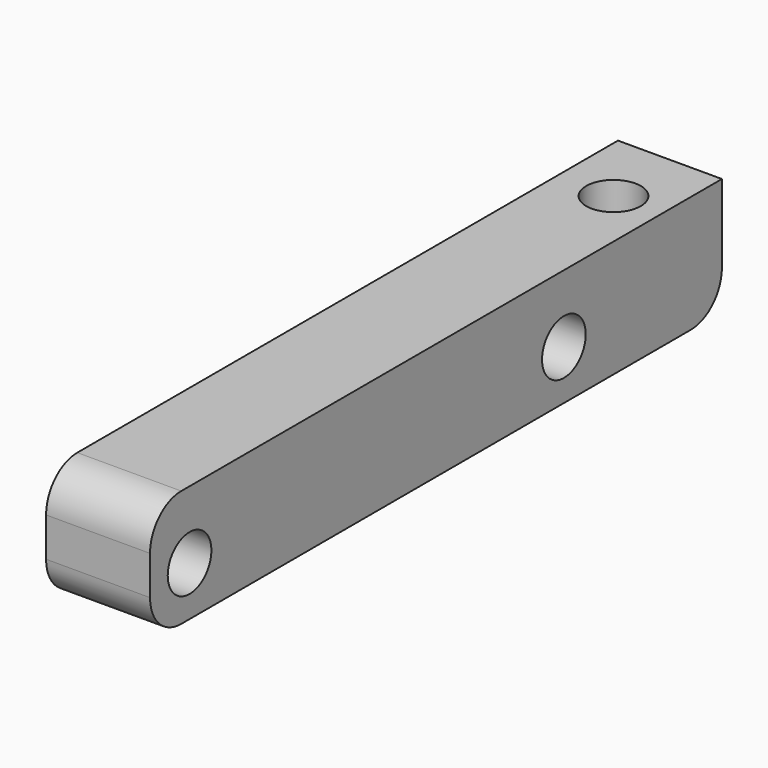
from build123d import *

# Parameters (mm, degrees)
CYLINDER006_R     = 2.1
CYLINDER006_DEPTH = 20
SKETCH005_R       = 2.1
EXTRUDE004_DEPTH  = 10
BOX003_W          = 8
BOX003_H          = 55
BOX003_DEPTH      = 9
FILLET001_R       = 3


with BuildPart() as obj1:
    # Cylinder006 → Cylinder006 (new body)
    with BuildSketch(Plane(origin=(14.5, 23.2, -10), x_dir=(1, 0, 0), z_dir=(0, 0, 1))):
        Circle(CYLINDER006_R)
    extrude(amount=CYLINDER006_DEPTH)


with BuildPart() as obj2:
    # Sketch005 (on Face2 of Box003) → Extrude004 (new body)
    with BuildSketch(Plane(origin=(18.2, 17.6, -2.4), x_dir=(0, -1, 0), z_dir=(-1, 0, 0))):
        with Locations((3.8, 3.8)):
            Circle(SKETCH005_R)
        with Locations((39.8, 3.8)):
            Circle(SKETCH005_R)
    extrude(amount=EXTRUDE004_DEPTH)

    # Fusion006: union obj1
    add(obj1.part)


with BuildPart() as obj3:
    # Box003 → Box003 (new body)
    with BuildSketch(Plane(origin=(10.2, -26, -2.4), x_dir=(1, 0, 0), z_dir=(0, 0, 1))):
        with Locations((4, 27.5)):
            Rectangle(BOX003_W, BOX003_H)
    extrude(amount=BOX003_DEPTH)

    # Fillet001
    fillet001_edges = [obj3.edges().sort_by_distance(p)[0] for p in [
        (14.2, -26, -2.4),
        (14.2, -26, 6.6),
        (14.2, 29, -2.4),
    ]]
    fillet(fillet001_edges, radius=FILLET001_R)

    # Cut003: cut obj2
    add(obj2.part, mode=Mode.SUBTRACT)


solid = obj3.part
